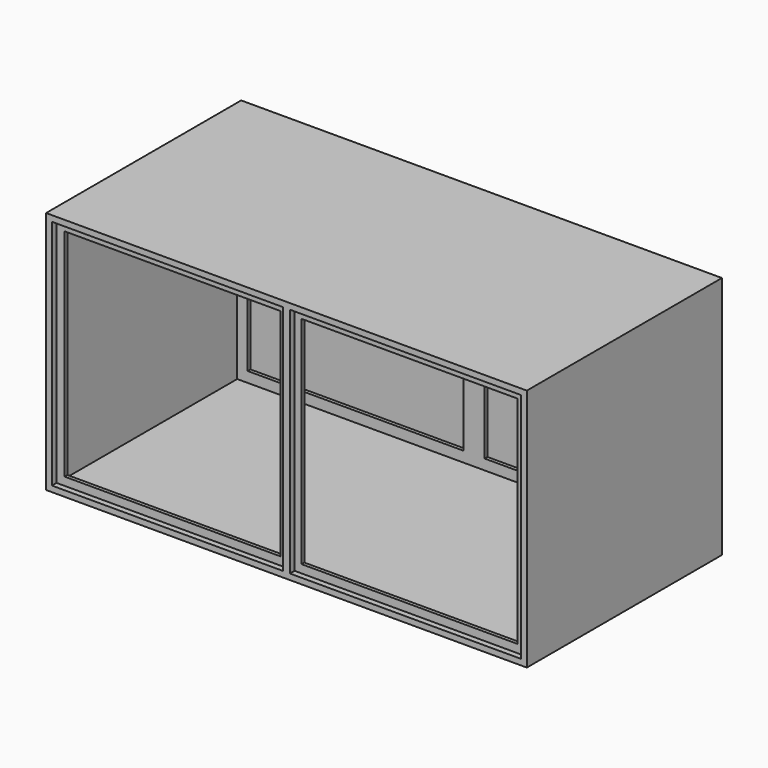
from build123d import *

# Parameters (mm, degrees)
F0_W      = 420
F0_H      = 420
F1_DEPTH  = 105
F2_T      = -6
F3_W      = 6
F3_H      = 408
F4_DEPTH  = 18
F5_W      = 6
F5_H      = 408
F6_DEPTH  = 18
F7_W      = 6
F7_H      = 18
F8_DEPTH  = 372
F9_W      = 6
F9_H      = 18
F10_DEPTH = 372
F11_W     = 408
F11_H     = 408
F11_W_2   = 400
F11_H_2   = 400
F12_DEPTH = 10
F14_DEPTH = 25.4
F15_W     = 400
F15_H     = 400
F16_DEPTH = 10
F18_DEPTH = 25.4


with BuildPart() as f1:
    # F0 (on Front) → F1 (new body, symmetric)
    with BuildSketch(Plane.XZ):
        Rectangle(F0_W, F0_H)
    extrude(amount=F1_DEPTH, both=True)

    # F2
    f2_openings = [f1.faces().sort_by_distance(p)[0] for p in [
        (0, -105, 0),
    ]]
    offset(amount=F2_T, openings=f2_openings)

    # F3 (on face) → F4 (join)
    with BuildSketch(Plane.YZ.offset(-204)):
        with Locations((-92, 0)):
            Rectangle(F3_W, F3_H)
    extrude(amount=F4_DEPTH)

    # F5 (on face) → F6 (join)
    with BuildSketch(Plane(origin=(204, 0, 0), x_dir=(0, -1, 0), z_dir=(-1, 0, 0))):
        with Locations((92, 0)):
            Rectangle(F5_W, F5_H)
    extrude(amount=F6_DEPTH)

    # F7 (on face) → F8 (join, through all)
    with BuildSketch(Plane.YZ.offset(-186)):
        with Locations((-92, 195)):
            Rectangle(F7_W, F7_H)
    extrude(amount=F8_DEPTH)

    # F9 (on face) → F10 (join, through all)
    with BuildSketch(Plane.YZ.offset(-186)):
        with Locations((-92, -195)):
            Rectangle(F9_W, F9_H)
    extrude(amount=F10_DEPTH)

    # F11 (on face) → F12 (join)
    with BuildSketch(Plane.XZ.offset(95)):
        Rectangle(F11_W, F11_H)
        Rectangle(F11_W_2, F11_H_2, mode=Mode.SUBTRACT)
    extrude(amount=F12_DEPTH)

    # F13: F1 across face


with BuildPart() as f1_1:
    add(f1.part)
    add(f1.part.mirror(Plane(origin=(0, 105, 0), x_dir=(1, 0, 0), z_dir=(0, 1, 0))))

    # F14 (cut): a face of the model
    f14_faces = [f1_1.faces().sort_by_distance(p)[0] for p in [
        (0, 111, 0),
    ]]
    extrude(f14_faces, amount=-F14_DEPTH, mode=Mode.SUBTRACT)

    # F15 (on face) → F16 (join)
    with BuildSketch(Plane(origin=(0, 305, 0), x_dir=(-1, 0, 0), z_dir=(0, 1, 0))):
        Rectangle(F15_W, F15_H)
    extrude(amount=F16_DEPTH)

    # F17: F1 across face


with BuildPart() as f1_2:
    add(f1_1.part)
    add(f1_1.part.mirror(Plane(origin=(204, 105, 0), x_dir=(0, -1, 0), z_dir=(-1, 0, 0))))

    # F18 (cut): a face of the model
    f18_faces = [f1_2.faces().sort_by_distance(p)[0] for p in [
        (198, 105, 0),
    ]]
    extrude(f18_faces, amount=-F18_DEPTH, mode=Mode.SUBTRACT)


solid = f1_2.part
